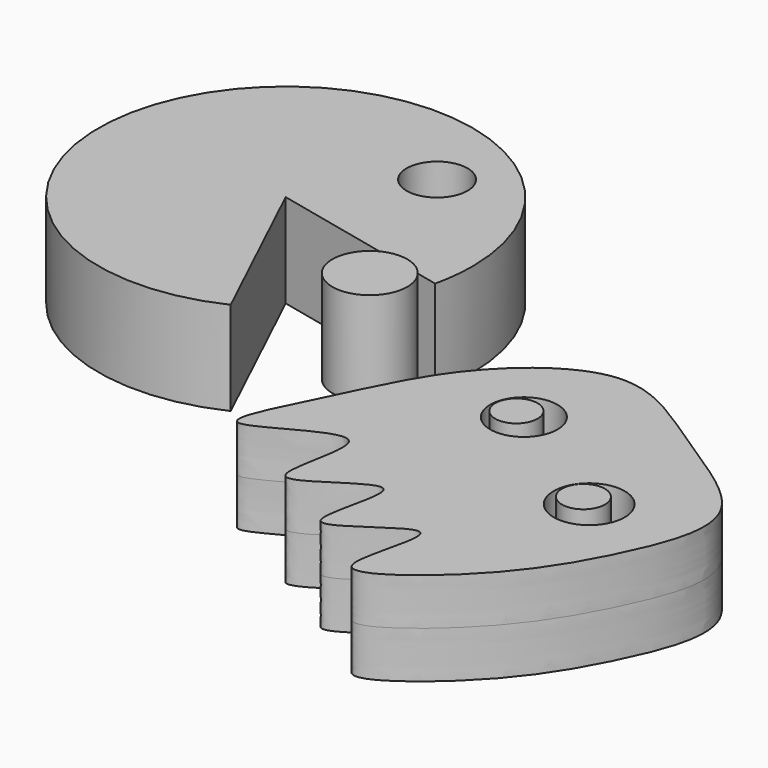
from build123d import *

# Parameters (mm, degrees)
F0_R     = 8.2761814563
F1_DEPTH = 12.7
F2_R     = 9.1282412169
F2_R_2   = 9.634052742
F3_DEPTH = 12.7
F2_R_3   = 5.7446651669
F2_R_4   = 5.8295814708
F4_R     = 10.1720228816
F5_DEPTH = 25.4


with BuildPart() as f1:
    # F0 (on Top) → F1 (new body, symmetric)
    with BuildSketch(Plane.XY):
        with BuildLine():
            ThreePointArc((49.5485544479, -11.2062818154), (50.4861692246, -5.6379710024), (50.8, 0))
            ThreePointArc((50.8, 0), (-42.9372766203, 27.1483015387), (21.7830599829, -45.8926823991))
            Line((21.7830599829, -45.8926823991), (0, 0))
            Line((0, 0), (49.5485544479, -11.2062818154))
        make_face()
        with Locations((20.0254824013, 26.3484623283)):
            Circle(F0_R, mode=Mode.SUBTRACT)
    extrude(amount=F1_DEPTH, both=True)


with BuildPart() as f3:
    # F2 (on Top) → F3 (new body, symmetric)
    with BuildSketch(Plane.XY):
        with BuildLine():
            add(Edge.make_bspline(
                [(63.1356537342, -68.0920034647), (58.7378976772, -76.9866267775), (47.4321881834, -98.0647042015), (90.8438114234, -64.4611130528), (70.1651612248, -114.6846199632), (109.6414979806, -77.1350969257), (89.0333824241, -126.1087111208), (128.0285932513, -88.2453645659), (108.0804945716, -134.758355981), (142.294667462, -110.4657466302), (158.0900672165, -84.346742684), (169.4752392955, -53.6634050387), (136.7845407395, -35.56979151), (108.5214840699, -13.1399285917), (77.0548852948, -37.0162228212), (68.9840902556, -56.2633255769), (63.1356537342, -68.0920034647)],
                knots=[0, 0, 0, 0, 0.0626184515, 0.1320037747, 0.1966552464, 0.2614655937, 0.3242270842, 0.3891916074, 0.4531738316, 0.5203627636, 0.6053090744, 0.6767543571, 0.7572665672, 0.8377074397, 0.9167257042, 1, 1, 1, 1], degree=3))
        make_face()
        with Locations((102.5213673711, -47.3196655512)):
            Circle(F2_R, mode=Mode.SUBTRACT)
        with Locations((138.3190155029, -69.894246757)):
            Circle(F2_R_2, mode=Mode.SUBTRACT)
    extrude(amount=F3_DEPTH, both=True)


with BuildPart() as f3b:
    # F2 (on Top) → F3, piece 2 (new body, symmetric)
    with BuildSketch(Plane.XY):
        with Locations((99.5242595673, -46.1132153869)):
            Circle(F2_R_3)
    extrude(amount=F3_DEPTH, both=True)


with BuildPart() as f3c:
    # F2 (on Top) → F3, piece 3 (new body, symmetric)
    with BuildSketch(Plane.XY):
        with Locations((135.2072060108, -67.9607242346)):
            Circle(F2_R_4)
    extrude(amount=F3_DEPTH, both=True)


with BuildPart() as f5:
    # F4 (on Top) → F5 (new body)
    with BuildSketch(Plane.XY):
        with Locations((50.9495586157, -35.1347662508)):
            Circle(F4_R)
        with Locations((50.9495586157, -35.1347662508)):
            Circle(F4_R)
    extrude(amount=F5_DEPTH)


solid = Compound([f1.part, f3.part, f3b.part, f3c.part, f5.part])
